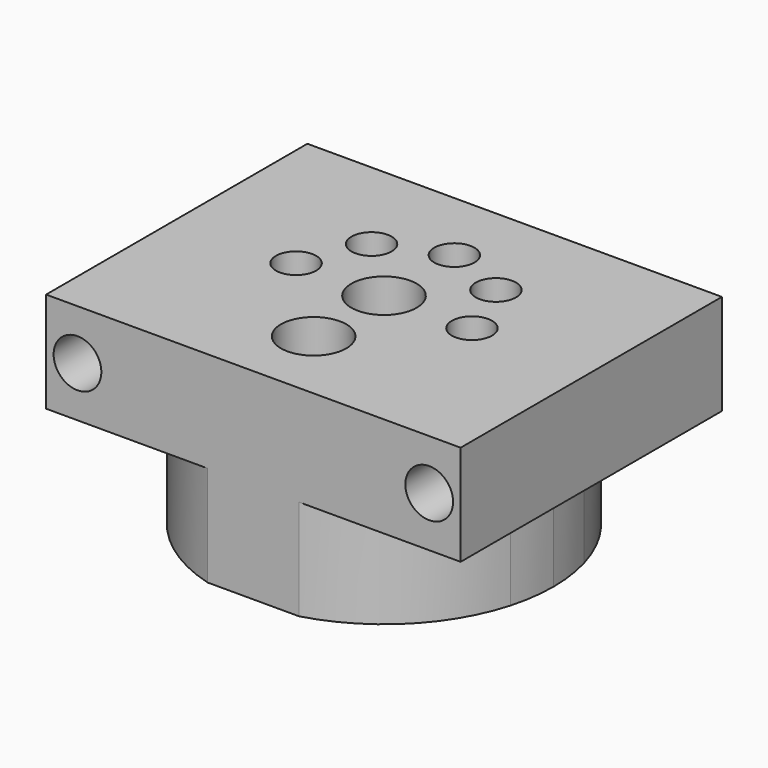
from build123d import *

# Parameters (mm, degrees)
F0_R     = 4.25
F0_R_2   = 2.6
F1_DEPTH = 8
F0_R_3   = 10.25
F0_R_4   = 1.6
F2_DEPTH = 8
F3_DEPTH = 8
F4_DEPTH = 8
F5_R     = 1.9
F6_DEPTH = 27


with BuildPart() as f1:
    # F0 (on Top) → F1 (new body)
    with BuildSketch(Plane.XY):
        Circle(F0_R)
        Circle(F0_R_2, mode=Mode.SUBTRACT)
    extrude(amount=F1_DEPTH)

    # F0 (on Top) → F2 (join)
    with BuildSketch(Plane.XY):
        Circle(F0_R_3)
        with Locations((0, -7)):
            Circle(F0_R_2, mode=Mode.SUBTRACT)
        with Locations((-7, 0)):
            Circle(F0_R_4, mode=Mode.SUBTRACT)
        with Locations((-4.95, 4.9494949237)):
            Circle(F0_R_4, mode=Mode.SUBTRACT)
        Circle(F0_R, mode=Mode.SUBTRACT)
        with Locations((7, 0)):
            Circle(F0_R_4, mode=Mode.SUBTRACT)
        with Locations((4.95, 4.9494949237)):
            Circle(F0_R_4, mode=Mode.SUBTRACT)
        with Locations((0, 7)):
            Circle(F0_R_4, mode=Mode.SUBTRACT)
    extrude(amount=F2_DEPTH)

    # F0 (on Top) → F3 (join)
    with BuildSketch(Plane.XY):
        with BuildLine():
            ThreePointArc((11.5318049333, -3.3192581973), (11.8823747458, -1.6760579943), (12, 0))
            ThreePointArc((12, 0), (11.8823747458, 1.6760579943), (11.5318049333, 3.3192581973))
            ThreePointArc((11.5318049333, 3.3192581973), (8.3601945025, 8.6085508583), (2.9803472847, 11.6240066269))
            ThreePointArc((2.9803472847, 11.6240066269), (0, 12), (-2.9803472847, 11.6240066269))
            ThreePointArc((-2.9803472847, 11.6240066269), (-8.3601945025, 8.6085508583), (-11.5318049333, 3.3192581973))
            ThreePointArc((-11.5318049333, 3.3192581973), (-12, 0), (-11.5318049333, -3.3192581973))
            ThreePointArc((-11.5318049333, -3.3192581973), (-8.3601945025, -8.6085508583), (-2.9803472847, -11.6240066269))
            ThreePointArc((-2.9803472847, -11.6240066269), (0, -12), (2.9803472847, -11.6240066269))
            ThreePointArc((2.9803472847, -11.6240066269), (8.3601945025, -8.6085508583), (11.5318049333, -3.3192581973))
        make_face()
        Circle(F0_R_3, mode=Mode.SUBTRACT)
        with BuildLine():
            ThreePointArc((2.9803472847, 11.6240066269), (8.3601945025, 8.6085508583), (11.5318049333, 3.3192581973))
            Line((11.5318049333, 3.3192581973), (12.9980264072, 3.6470960391))
            ThreePointArc((12.9980264072, 3.6470960391), (9.5433558507, 9.5485265412), (3.6400549446, 13))
            Line((3.6400549446, 13), (3.3579982004, 13))
            Line((3.3579982004, 13), (2.9803472847, 11.6240066269))
        make_face()
        with BuildLine():
            ThreePointArc((-2.9803472847, 11.6240066269), (0, 12), (2.9803472847, 11.6240066269))
            Line((2.9803472847, 11.6240066269), (3.3579982004, 13))
            Line((3.3579982004, 13), (-3.3579982004, 13))
            Line((-3.3579982004, 13), (-2.9803472847, 11.6240066269))
        make_face()
        with BuildLine():
            ThreePointArc((3.6400549446, 13), (9.5433558507, 9.5485265412), (12.9980264072, 3.6470960391))
            ThreePointArc((12.9980264072, 3.6470960391), (13.3739178347, 1.8407394578), (13.5, 0))
            ThreePointArc((13.5, 0), (13.3739178347, -1.8407394578), (12.9980264072, -3.6470960391))
            ThreePointArc((12.9980264072, -3.6470960391), (9.5433558507, -9.5485265412), (3.6400549446, -13))
            Line((3.6400549446, -13), (16.5, -13))
            Line((16.5, -13), (16.5, 13))
            Line((16.5, 13), (3.6400549446, 13))
        make_face()
        with BuildLine():
            ThreePointArc((11.5318049333, 3.3192581973), (11.8823747458, 1.6760579943), (12, 0))
            ThreePointArc((12, 0), (11.8823747458, -1.6760579943), (11.5318049333, -3.3192581973))
            Line((11.5318049333, -3.3192581973), (12.9980264072, -3.6470960391))
            ThreePointArc((12.9980264072, -3.6470960391), (13.3739178347, -1.8407394578), (13.5, 0))
            ThreePointArc((13.5, 0), (13.3739178347, 1.8407394578), (12.9980264072, 3.6470960391))
            Line((12.9980264072, 3.6470960391), (11.5318049333, 3.3192581973))
        make_face()
        with BuildLine():
            Line((12.9980264072, -3.6470960391), (11.5318049333, -3.3192581973))
            ThreePointArc((11.5318049333, -3.3192581973), (8.3601945025, -8.6085508583), (2.9803472847, -11.6240066269))
            Line((2.9803472847, -11.6240066269), (3.3579982004, -13))
            Line((3.3579982004, -13), (3.6400549446, -13))
            ThreePointArc((3.6400549446, -13), (9.5433558507, -9.5485265412), (12.9980264072, -3.6470960391))
        make_face()
        with BuildLine():
            Line((3.3579982004, -13), (2.9803472847, -11.6240066269))
            ThreePointArc((2.9803472847, -11.6240066269), (0, -12), (-2.9803472847, -11.6240066269))
            Line((-2.9803472847, -11.6240066269), (-3.3579982004, -13))
            Line((-3.3579982004, -13), (3.3579982004, -13))
        make_face()
        with BuildLine():
            Line((-3.3579982004, -13), (-2.9803472847, -11.6240066269))
            ThreePointArc((-2.9803472847, -11.6240066269), (-8.3601945025, -8.6085508583), (-11.5318049333, -3.3192581973))
            Line((-11.5318049333, -3.3192581973), (-12.9980264072, -3.6470960391))
            ThreePointArc((-12.9980264072, -3.6470960391), (-9.5433558507, -9.5485265412), (-3.6400549446, -13))
            Line((-3.6400549446, -13), (-3.3579982004, -13))
        make_face()
        with BuildLine():
            ThreePointArc((-12.9980264072, -3.6470960391), (-13.5, 0), (-12.9980264072, 3.6470960391))
            ThreePointArc((-12.9980264072, 3.6470960391), (-9.5433558507, 9.5485265412), (-3.6400549446, 13))
            Line((-3.6400549446, 13), (-16.5, 13))
            Line((-16.5, 13), (-16.5, -13))
            Line((-16.5, -13), (-3.6400549446, -13))
            ThreePointArc((-3.6400549446, -13), (-9.5433558507, -9.5485265412), (-12.9980264072, -3.6470960391))
        make_face()
        with BuildLine():
            ThreePointArc((-11.5318049333, -3.3192581973), (-12, 0), (-11.5318049333, 3.3192581973))
            Line((-11.5318049333, 3.3192581973), (-12.9980264072, 3.6470960391))
            ThreePointArc((-12.9980264072, 3.6470960391), (-13.5, 0), (-12.9980264072, -3.6470960391))
            Line((-12.9980264072, -3.6470960391), (-11.5318049333, -3.3192581973))
        make_face()
        with BuildLine():
            ThreePointArc((-11.5318049333, 3.3192581973), (-8.3601945025, 8.6085508583), (-2.9803472847, 11.6240066269))
            Line((-2.9803472847, 11.6240066269), (-3.3579982004, 13))
            Line((-3.3579982004, 13), (-3.6400549446, 13))
            ThreePointArc((-3.6400549446, 13), (-9.5433558507, 9.5485265412), (-12.9980264072, 3.6470960391))
            Line((-12.9980264072, 3.6470960391), (-11.5318049333, 3.3192581973))
        make_face()
    extrude(amount=F3_DEPTH)

    # F0 (on Top) → F4 (join, symmetric)
    with BuildSketch(Plane.XY):
        with BuildLine():
            Line((-3.3579982004, -13), (-2.9803472847, -11.6240066269))
            ThreePointArc((-2.9803472847, -11.6240066269), (-8.3601945025, -8.6085508583), (-11.5318049333, -3.3192581973))
            Line((-11.5318049333, -3.3192581973), (-12.9980264072, -3.6470960391))
            ThreePointArc((-12.9980264072, -3.6470960391), (-9.5433558507, -9.5485265412), (-3.6400549446, -13))
            Line((-3.6400549446, -13), (-3.3579982004, -13))
        make_face()
        with BuildLine():
            Line((12.9980264072, -3.6470960391), (11.5318049333, -3.3192581973))
            ThreePointArc((11.5318049333, -3.3192581973), (8.3601945025, -8.6085508583), (2.9803472847, -11.6240066269))
            Line((2.9803472847, -11.6240066269), (3.3579982004, -13))
            Line((3.3579982004, -13), (3.6400549446, -13))
            ThreePointArc((3.6400549446, -13), (9.5433558507, -9.5485265412), (12.9980264072, -3.6470960391))
        make_face()
        with BuildLine():
            ThreePointArc((2.9803472847, 11.6240066269), (8.3601945025, 8.6085508583), (11.5318049333, 3.3192581973))
            Line((11.5318049333, 3.3192581973), (12.9980264072, 3.6470960391))
            ThreePointArc((12.9980264072, 3.6470960391), (9.5433558507, 9.5485265412), (3.6400549446, 13))
            Line((3.6400549446, 13), (3.3579982004, 13))
            Line((3.3579982004, 13), (2.9803472847, 11.6240066269))
        make_face()
        with BuildLine():
            ThreePointArc((-11.5318049333, 3.3192581973), (-8.3601945025, 8.6085508583), (-2.9803472847, 11.6240066269))
            Line((-2.9803472847, 11.6240066269), (-3.3579982004, 13))
            Line((-3.3579982004, 13), (-3.6400549446, 13))
            ThreePointArc((-3.6400549446, 13), (-9.5433558507, 9.5485265412), (-12.9980264072, 3.6470960391))
            Line((-12.9980264072, 3.6470960391), (-11.5318049333, 3.3192581973))
        make_face()
        with BuildLine():
            Line((3.3579982004, -13), (2.9803472847, -11.6240066269))
            ThreePointArc((2.9803472847, -11.6240066269), (0, -12), (-2.9803472847, -11.6240066269))
            Line((-2.9803472847, -11.6240066269), (-3.3579982004, -13))
            Line((-3.3579982004, -13), (3.3579982004, -13))
        make_face()
        with BuildLine():
            ThreePointArc((-11.5318049333, -3.3192581973), (-12, 0), (-11.5318049333, 3.3192581973))
            Line((-11.5318049333, 3.3192581973), (-12.9980264072, 3.6470960391))
            ThreePointArc((-12.9980264072, 3.6470960391), (-13.5, 0), (-12.9980264072, -3.6470960391))
            Line((-12.9980264072, -3.6470960391), (-11.5318049333, -3.3192581973))
        make_face()
        with BuildLine():
            ThreePointArc((11.5318049333, 3.3192581973), (11.8823747458, 1.6760579943), (12, 0))
            ThreePointArc((12, 0), (11.8823747458, -1.6760579943), (11.5318049333, -3.3192581973))
            Line((11.5318049333, -3.3192581973), (12.9980264072, -3.6470960391))
            ThreePointArc((12.9980264072, -3.6470960391), (13.3739178347, -1.8407394578), (13.5, 0))
            ThreePointArc((13.5, 0), (13.3739178347, 1.8407394578), (12.9980264072, 3.6470960391))
            Line((12.9980264072, 3.6470960391), (11.5318049333, 3.3192581973))
        make_face()
        with BuildLine():
            ThreePointArc((-2.9803472847, 11.6240066269), (0, 12), (2.9803472847, 11.6240066269))
            Line((2.9803472847, 11.6240066269), (3.3579982004, 13))
            Line((3.3579982004, 13), (-3.3579982004, 13))
            Line((-3.3579982004, 13), (-2.9803472847, 11.6240066269))
        make_face()
    extrude(amount=F4_DEPTH, both=True)

    # F5 (on face) → F6 (cut)
    with BuildSketch(Plane.XZ.offset(13)):
        with Locations((-14, 4)):
            Circle(F5_R)
        with Locations((14, 4)):
            Circle(F5_R)
    extrude(amount=-F6_DEPTH, mode=Mode.SUBTRACT)


solid = f1.part
